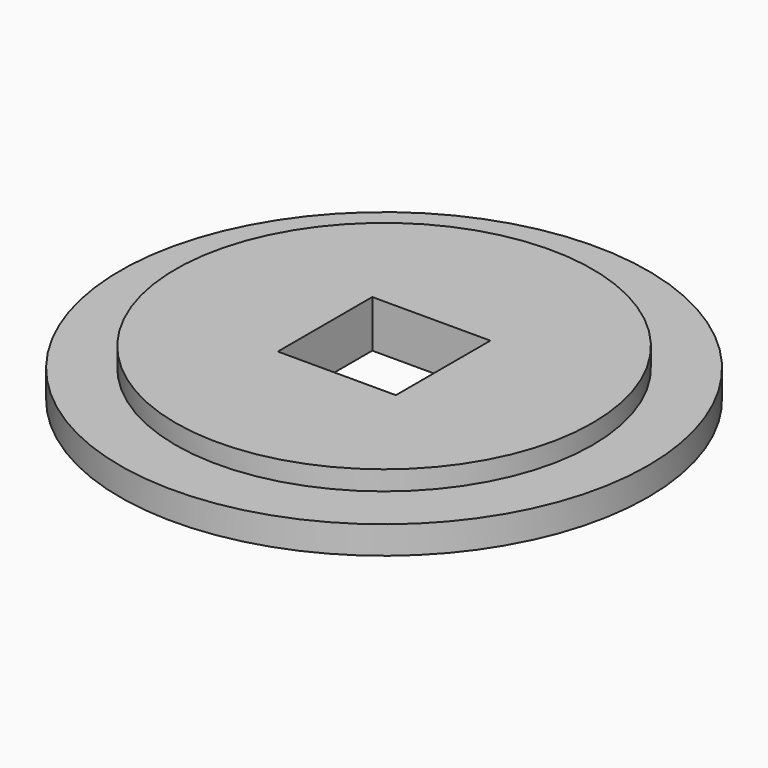
from build123d import *

# Parameters (mm, degrees)
SKETCH_R      = 19
SKETCH_R_2    = 4
PAD_DEPTH     = 2
SKETCH001_R   = 15
SKETCH001_R_2 = 4
PAD001_DEPTH  = 1.4
SKETCH002_W   = 8.5
SKETCH002_H   = 8.5
POCKET_DEPTH  = 6


with BuildPart() as part:
    # Sketch → Pad (new body)
    with BuildSketch(Plane.XY):
        Circle(SKETCH_R)
        Circle(SKETCH_R_2, mode=Mode.SUBTRACT)
    extrude(amount=PAD_DEPTH)

    # Sketch001 (on Face4 of Pad) → Pad001 (join)
    with BuildSketch(Plane.XY.offset(2)):
        Circle(SKETCH001_R)
        Circle(SKETCH001_R_2, mode=Mode.SUBTRACT)
    extrude(amount=PAD001_DEPTH)

    # Sketch002 (on Face7 of Pad001) → Pocket (cut)
    with BuildSketch(Plane.XY.offset(3.4)):
        Rectangle(SKETCH002_W, SKETCH002_H)
    extrude(amount=-POCKET_DEPTH, mode=Mode.SUBTRACT)


solid = part.part
